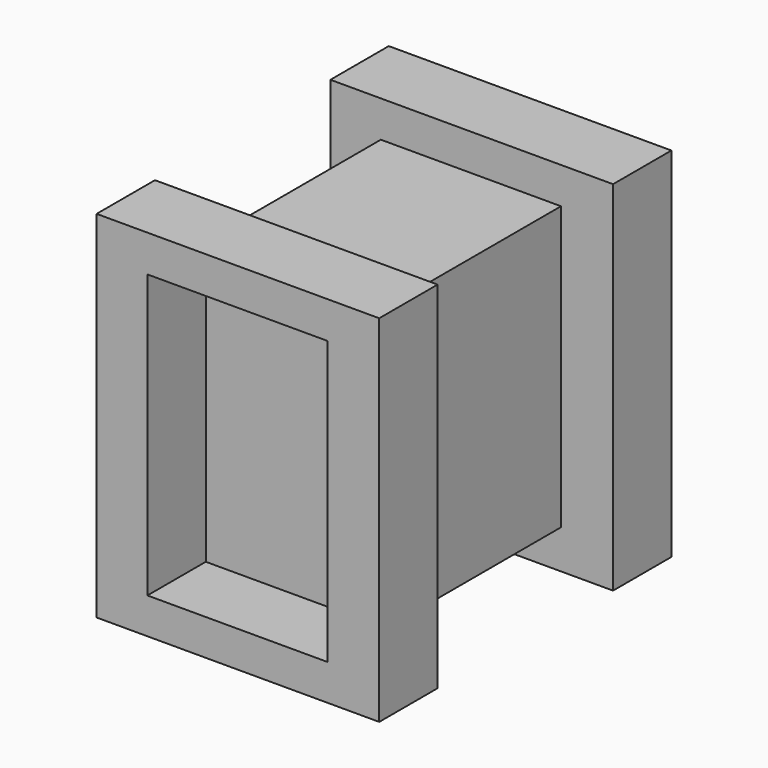
from build123d import *

# Parameters (mm, degrees)
F0_W     = 98.429568
F0_H     = 124.619898
F1_DEPTH = 25.4
F2_W     = 62.741655
F2_H     = 98.429572
F3_DEPTH = 101.6
F4_W     = 98.429565
F4_H     = 123.756472
F4_W_2   = 62.741655
F4_H_2   = 98.429572
F5_DEPTH = 25.4


with BuildPart() as f1:
    # F0 (on Front) → F1 (new body)
    with BuildSketch(Plane.XZ):
        with Locations((-15.685413, -3.741475)):
            Rectangle(F0_W, F0_H)
    extrude(amount=F1_DEPTH)

    # F2 (on Front) → F3 (join)
    with BuildSketch(Plane.XZ):
        with Locations((-15.973221, -3.309766)):
            Rectangle(F2_W, F2_H)
    extrude(amount=F3_DEPTH)


with BuildPart() as f5:
    # F4 (on face) → F5 (new body)
    with BuildSketch(Plane.XZ.offset(101.6)):
        with Locations((-15.829315, -3.165862)):
            Rectangle(F4_W, F4_H)
        with Locations((-15.973221, -3.309766)):
            Rectangle(F4_W_2, F4_H_2, mode=Mode.SUBTRACT)
    extrude(amount=F5_DEPTH)


solid = Compound([f1.part, f5.part])
